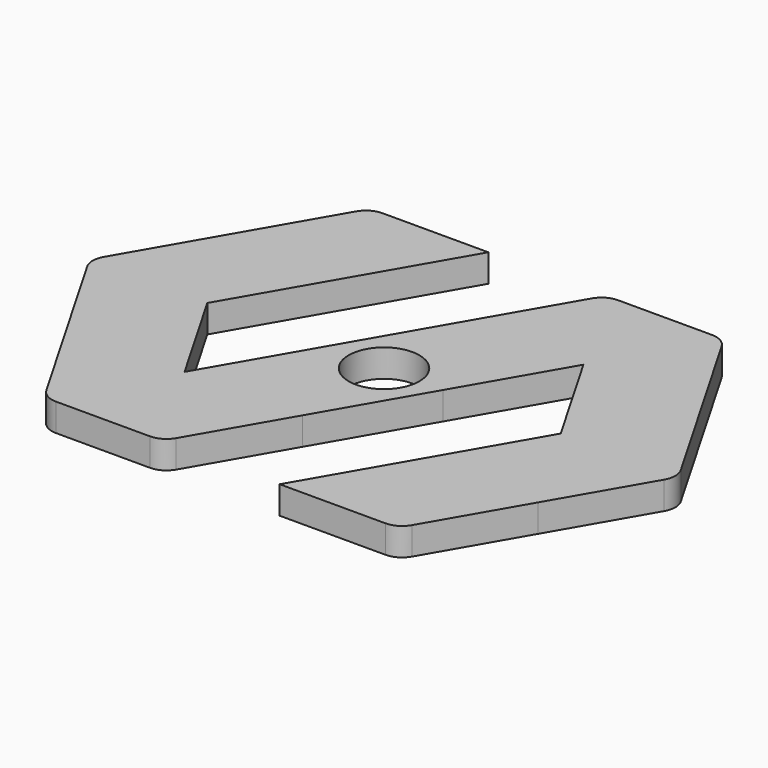
from build123d import *

# Parameters (mm, degrees)
F2_DEPTH = 4
F3_D     = 10.2
F4_R     = 3


with BuildPart() as f2:
    # F0 (on Top) → F2 (new body)
    with BuildSketch(Plane.XY):
        Polygon((8.5, 14.7224318643), (0, 0), (17, 0), (25.5, 14.7224318643), (34, 29.4448637287), (25.5, 44.167295593), (17, 58.8897274573), (0, 58.8897274573), (-8.5, 44.167295593), (-17, 29.4448637287), (-25.5, 14.7224318643), (-34, 29.4448637287), (-25.5, 44.167295593), (-17, 58.8897274573), (-34, 58.8897274573), (-42.5, 44.167295593), (-51, 29.4448637287), (-42.5, 14.7224318643), (-34, 0), (-17, 0), (-8.5, 14.7224318643), (0, 29.4448637287), (8.5, 44.167295593), (17, 29.4448637287), align=None)
    extrude(amount=F2_DEPTH)

    # F3 (through all)
    with Locations(Plane(origin=(0, 0, 0), x_dir=(1, 0, 0), z_dir=(0, 0, -1))):
        with Locations((-8.5, -29.4448637287)):
            Hole(F3_D / 2)

    # F4
    f4_edges = [f2.edges().sort_by_distance(p)[0] for p in [
        (-51, 29.444864, 2),
        (-34, 58.889727, 2),
        (0, 58.889727, 2),
        (17, 58.889727, 2),
        (34, 29.444864, 2),
        (17, 0, 2),
        (-17, 0, 2),
        (-34, 0, 2),
    ]]
    fillet(f4_edges, radius=F4_R)


solid = f2.part
